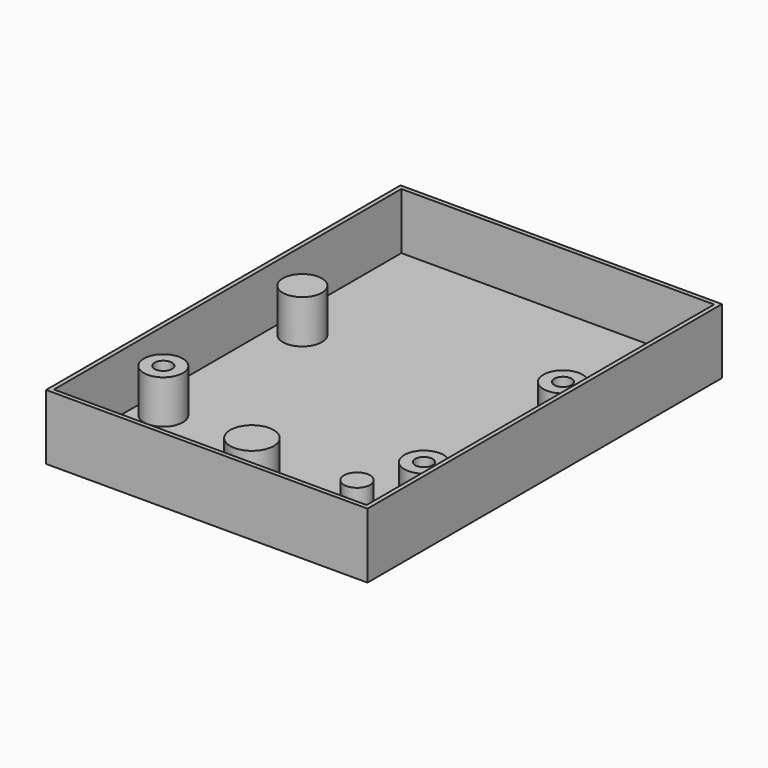
from build123d import *

# Parameters (mm, degrees)
SKETCH_W        = 74
SKETCH_H        = 102
PAD_DEPTH       = 15
SKETCH001_W     = 72
SKETCH001_H     = 100
SKETCH001_R     = 4.5
SKETCH001_R_2   = 5
SKETCH001_R_3   = 3
POCKET_DEPTH    = 13
SKETCH002_R     = 2
POCKET001_DEPTH = 15.001
POCKET002_DEPTH = 9
SKETCH004_W     = 72
SKETCH004_H     = 100
POCKET003_DEPTH = 3


with BuildPart() as part:
    # Sketch → Pad (new body)
    with BuildSketch(Plane.XY):
        with Locations((37, 51)):
            Rectangle(SKETCH_W, SKETCH_H)
    extrude(amount=PAD_DEPTH)

    # Sketch001 (on Face6 of Pad) → Pocket (cut)
    with BuildSketch(Plane.XY.offset(15)):
        with Locations((37, 51)):
            Rectangle(SKETCH001_W, SKETCH001_H)
        with Locations((67, 25)):
            Circle(SKETCH001_R, mode=Mode.SUBTRACT)
        with Locations((7, 25)):
            Circle(SKETCH001_R, mode=Mode.SUBTRACT)
        with Locations((7, 65)):
            Circle(SKETCH001_R, mode=Mode.SUBTRACT)
        with Locations((67, 65)):
            Circle(SKETCH001_R, mode=Mode.SUBTRACT)
        with Locations((37, 13)):
            Circle(SKETCH001_R_2, mode=Mode.SUBTRACT)
        with Locations((62, 12)):
            Circle(SKETCH001_R_3, mode=Mode.SUBTRACT)
    extrude(amount=-POCKET_DEPTH, mode=Mode.SUBTRACT)

    # Sketch002 (on Face20 of Pocket) → Pocket001 (cut, through all)
    with BuildSketch(Plane.XY.offset(15)):
        with Locations((67, 65)):
            Circle(SKETCH002_R)
        with Locations((67, 25)):
            Circle(SKETCH002_R)
        with Locations((7, 25)):
            Circle(SKETCH002_R)
    extrude(amount=-POCKET001_DEPTH, mode=Mode.SUBTRACT)

    # Sketch003 (on Face4 of Pocket001) → Pocket002 (cut)
    with BuildSketch(Plane(origin=(0, 0, 0), x_dir=(1, 0, 0), z_dir=(0, 0, -1))):
        Polygon((9.75, -26.587713), (9.75, -23.412287), (7, -21.824574), (4.25, -23.412287), (4.25, -26.587713), (7, -28.175426), align=None)
        Polygon((69.75, -26.587713), (69.75, -23.412287), (67, -21.824574), (64.25, -23.412287), (64.25, -26.587713), (67, -28.175426), align=None)
        Polygon((69.75, -66.587713), (69.75, -63.412287), (67, -61.824574), (64.25, -63.412287), (64.25, -66.587713), (67, -68.175426), align=None)
    extrude(amount=-POCKET002_DEPTH, mode=Mode.SUBTRACT)

    # Sketch004 (on Face5 of Pocket002) → Pocket003 (cut)
    with BuildSketch(Plane.XY.offset(15)):
        with Locations((37, 51)):
            Rectangle(SKETCH004_W, SKETCH004_H)
    extrude(amount=-POCKET003_DEPTH, mode=Mode.SUBTRACT)


solid = part.part
